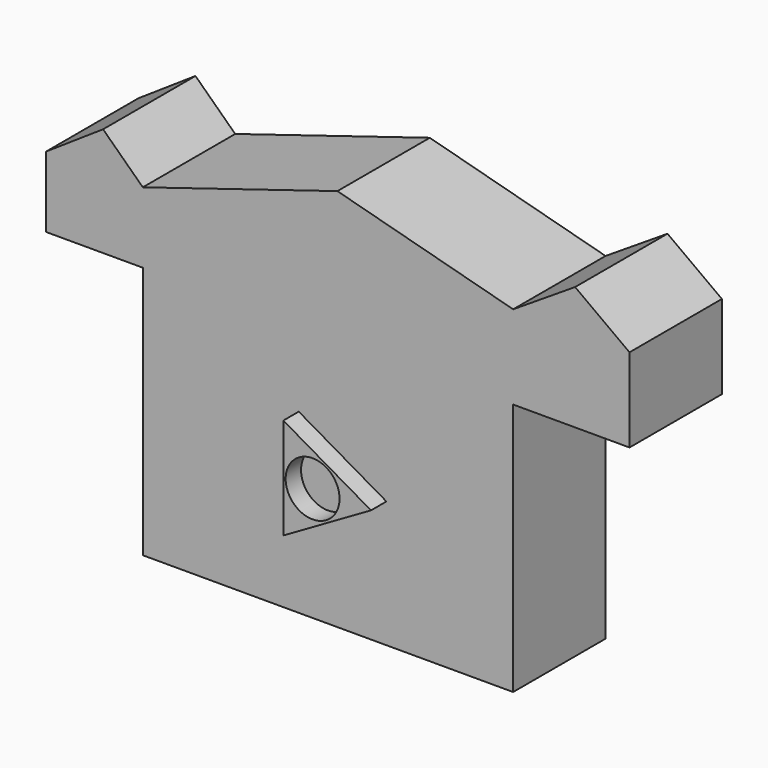
from build123d import *

# Parameters (mm, degrees)
F1_DEPTH = 38.1
F2_R     = 8.890185
F3_DEPTH = 6.35


with BuildPart() as f1:
    # F0 (on Front) → F1 (new body)
    with BuildSketch(Plane.XZ):
        Polygon((-61.081465, -41.750185), (61.081465, -41.750185), (61.081465, 41.750185), (61.081465, 69.404647), (3.112724, 84.873401), (-61.081465, 65.109767), (-61.081465, 41.750185), align=None)
        Polygon((61.081465, 69.404647), (61.081465, 41.750185), (99.475518, 41.750185), (99.475518, 69.404647), (81.522033, 82.512587), align=None)
        Polygon((-92.991859, 41.750185), (-61.081465, 41.750185), (-61.081465, 65.109767), (-74.191809, 77.689685), (-92.991859, 65.109767), align=None)
    extrude(amount=-F1_DEPTH)

    # F2 (on face) → F3 (join)
    with BuildSketch(Plane.XZ):
        Polygon((-9.637425, -16.692509), (19.274849, 0), (-9.637425, 16.692509), align=None)
        Circle(F2_R, mode=Mode.SUBTRACT)
    extrude(amount=F3_DEPTH)


solid = f1.part
